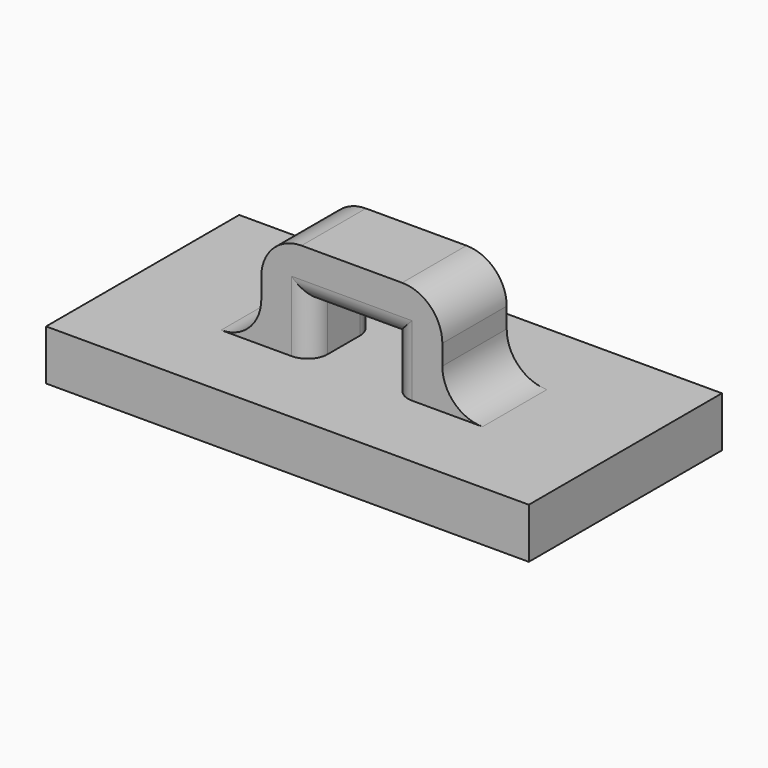
from build123d import *

# Parameters (mm, degrees)
F0_W     = 24
F0_H     = 12
F1_DEPTH = 2.5
F3_DEPTH = 2
F4_R     = 2
F5_R     = 1


with BuildPart() as f1:
    # F0 (on Top) → F1 (new body)
    with BuildSketch(Plane.XY):
        Rectangle(F0_W, F0_H)
    extrude(amount=F1_DEPTH)

    # F2 (on Front) → F3 (join, symmetric)
    with BuildSketch(Plane.XZ):
        Polygon((4.5, 7.5), (-4.5, 7.5), (-4.5, 2.033843), (-2, 2.033843), (-2, 5), (2, 5), (2, 2.033843), (4.5, 2.033843), align=None)
    extrude(amount=F3_DEPTH, both=True)

    # F4
    f4_edges = [f1.edges().sort_by_distance(p)[0] for p in [
        (4.5, 0, 7.5),
        (-4.5, 0, 7.5),
        (4.5, 0, 2.5),
        (-4.5, 0, 2.5),
    ]]
    fillet(f4_edges, radius=F4_R)

    # F5
    f5_edges = [f1.edges().sort_by_distance(p)[0] for p in [
        (0, -2, 5),
        (0, 2, 5),
        (2, 2, 3.75),
        (-2, 2, 3.75),
        (2, -2, 3.75),
        (-2, -2, 3.75),
    ]]
    fillet(f5_edges, radius=F5_R)


solid = f1.part
